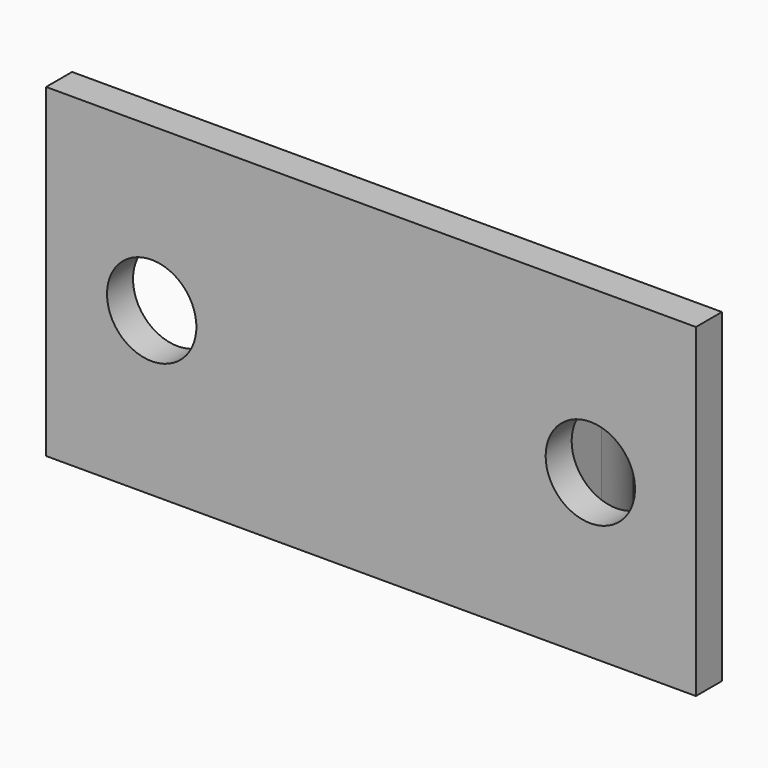
from build123d import *

# Parameters (mm, degrees)
F0_R     = 5
F1_DEPTH = 20
F2_R     = 2.75
F3_DEPTH = 2
F5_DEPTH = 10


with BuildPart() as f1:
    # F0 (on Top) → F1 (new body)
    with BuildSketch(Plane.XY):
        Polygon((-20, -2), (20, -2), (20, 0), (7, 0), (0, 0), (-7, 0), (-20, 0), align=None)
        with BuildLine():
            Line((0, 0), (7, 0))
            Line((7, 0), (7, 7))
            ThreePointArc((7, 7), (4.949747, 2.050253), (0, 0))
        make_face()
        with BuildLine():
            Line((-7, 7), (-7, 0))
            Line((-7, 0), (0, 0))
            ThreePointArc((0, 0), (-4.949747, 2.050253), (-7, 7))
        make_face()
        with BuildLine():
            ThreePointArc((-7, 7), (-4.949747, 2.050253), (0, 0))
            ThreePointArc((0, 0), (4.949747, 2.050253), (7, 7))
            ThreePointArc((7, 7), (0, 14), (-7, 7))
        make_face()
        with Locations((0, 7)):
            Circle(F0_R, mode=Mode.SUBTRACT)
    extrude(amount=F1_DEPTH)

    # F2 (on face) → F3 (cut, through all)
    with BuildSketch(Plane(origin=(0, 0, 0), x_dir=(-1, 0, 0), z_dir=(0, 1, 0))):
        with Locations((-13.5, 10)):
            Circle(F2_R)
        with Locations((13.5, 10)):
            Circle(F2_R)
    extrude(amount=-F3_DEPTH, mode=Mode.SUBTRACT)

    # F4 (on face) → F5 (cut)
    with BuildSketch(Plane.XY.offset(20)):
        with BuildLine():
            Line((-7, 7), (-7, 0))
            Line((-7, 0), (7, 0))
            Line((7, 0), (7, 7))
            ThreePointArc((7, 7), (4.949747, 11.949747), (0, 14))
            ThreePointArc((0, 14), (-4.949747, 11.949747), (-7, 7))
        make_face()
        with BuildLine():
            Line((-7, 14), (-7, 7))
            ThreePointArc((-7, 7), (-4.949747, 11.949747), (0, 14))
            Line((0, 14), (-7, 14))
        make_face()
        with BuildLine():
            ThreePointArc((0, 14), (4.949747, 11.949747), (7, 7))
            Line((7, 7), (7, 14))
            Line((7, 14), (0, 14))
        make_face()
    extrude(amount=-F5_DEPTH, mode=Mode.SUBTRACT)


solid = f1.part
